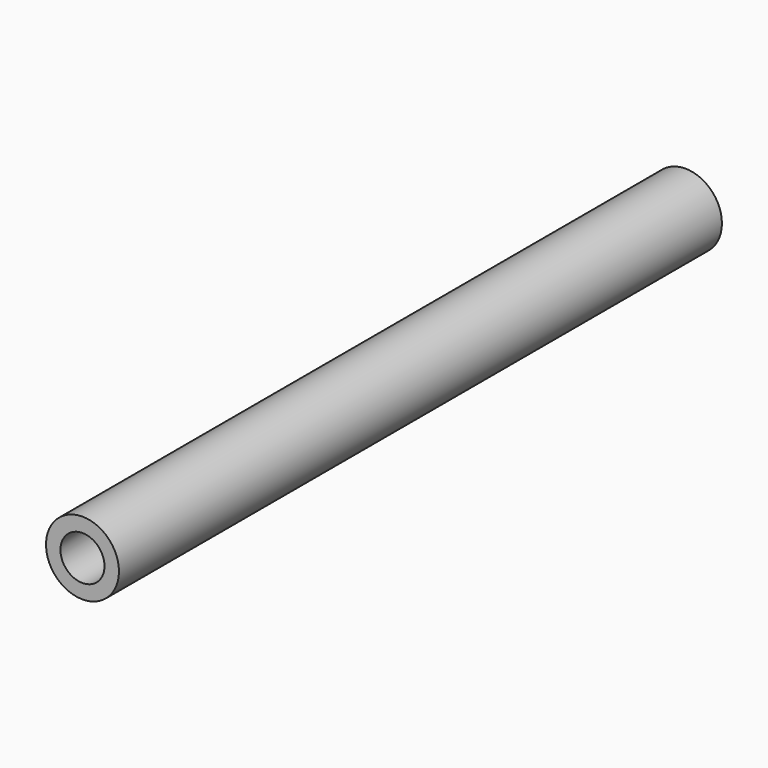
from build123d import *

# Parameters (mm, degrees)
F0_R     = 9.525
F1_DEPTH = 98.425
F2_R     = 5.754688
F3_DEPTH = 31.75
F4_R     = 4.960938
F5_DEPTH = 31.75


with BuildPart() as f1:
    # F0 (on Front) → F1 (new body, symmetric)
    with BuildSketch(Plane.XZ):
        Circle(F0_R)
    extrude(amount=F1_DEPTH, both=True)

    # F2 (on face) → F3 (cut)
    with BuildSketch(Plane.XZ.offset(98.425)):
        Circle(F2_R)
    extrude(amount=-F3_DEPTH, mode=Mode.SUBTRACT)

    # F4 (on face) → F5 (cut)
    with BuildSketch(Plane(origin=(0, 98.425, 0), x_dir=(-1, 0, 0), z_dir=(0, 1, 0))):
        Circle(F4_R)
    extrude(amount=-F5_DEPTH, mode=Mode.SUBTRACT)


solid = f1.part
